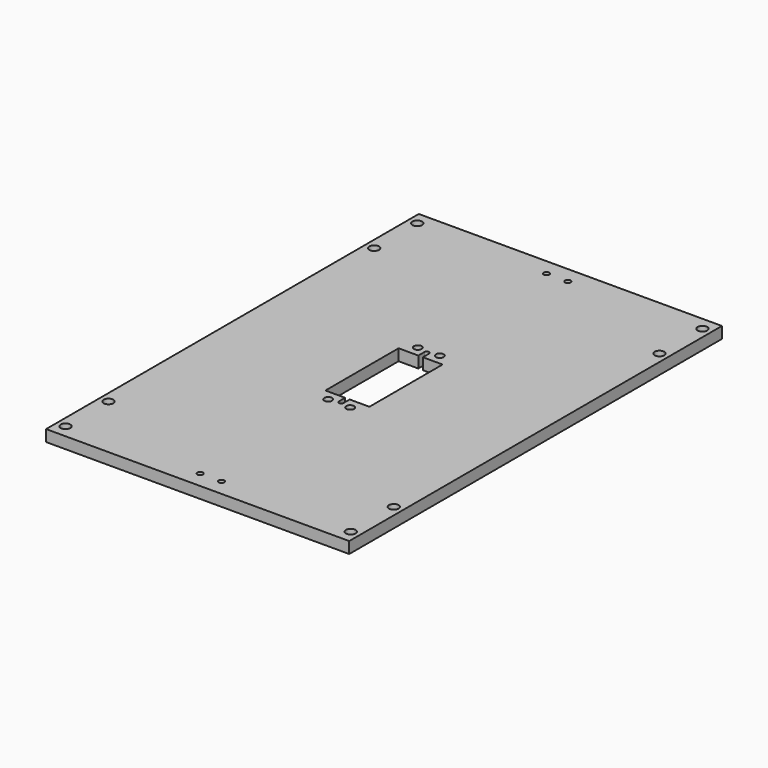
from build123d import *

# Parameters (mm, degrees)
F0_W     = 134.69465
F0_H     = 206.984854
F0_R     = 2.15265
F0_R_2   = 1.25
F0_R_3   = 1.7272
F1_DEPTH = 5.08


with BuildPart() as f1:
    # F0 (on Top) → F1 (new body)
    with BuildSketch(Plane.XY):
        Rectangle(F0_W, F0_H)
        with Locations((-63.378575, -97.650427)):
            Circle(F0_R, mode=Mode.SUBTRACT)
        with Locations((-63.378575, -73.774427)):
            Circle(F0_R, mode=Mode.SUBTRACT)
        with Locations((-4.750003, -96.192416)):
            Circle(F0_R_2, mode=Mode.SUBTRACT)
        with Locations((-4.8895, -24.892)):
            Circle(F0_R_3, mode=Mode.SUBTRACT)
        with Locations((4.750003, -96.192416)):
            Circle(F0_R_2, mode=Mode.SUBTRACT)
        with Locations((63.378575, -97.650427)):
            Circle(F0_R, mode=Mode.SUBTRACT)
        with Locations((63.378575, -73.774427)):
            Circle(F0_R, mode=Mode.SUBTRACT)
        with Locations((4.8895, -24.892)):
            Circle(F0_R_3, mode=Mode.SUBTRACT)
        with BuildLine():
            Line((-1.016, -20.32), (-9.779, -20.32))
            Line((-9.779, -20.32), (-9.779, 20.32))
            Line((-9.779, 20.32), (-1.016, 20.32))
            Line((-1.016, 20.32), (-1.016, 23.749))
            ThreePointArc((-1.016, 23.749), (0, 24.765), (1.016, 23.749))
            Line((1.016, 23.749), (1.016, 20.32))
            Line((1.016, 20.32), (9.779, 20.32))
            Line((9.779, 20.32), (9.779, -20.32))
            Line((9.779, -20.32), (1.016, -20.32))
            Line((1.016, -20.32), (1.016, -23.749))
            ThreePointArc((1.016, -23.749), (0, -24.765), (-1.016, -23.749))
            Line((-1.016, -23.749), (-1.016, -20.32))
        make_face(mode=Mode.SUBTRACT)
        with Locations((-4.8895, 24.892)):
            Circle(F0_R_3, mode=Mode.SUBTRACT)
        with Locations((-63.378575, 73.774427)):
            Circle(F0_R, mode=Mode.SUBTRACT)
        with Locations((-63.378575, 97.650427)):
            Circle(F0_R, mode=Mode.SUBTRACT)
        with Locations((-4.750003, 96.192416)):
            Circle(F0_R_2, mode=Mode.SUBTRACT)
        with Locations((4.8895, 24.892)):
            Circle(F0_R_3, mode=Mode.SUBTRACT)
        with Locations((4.750003, 96.192416)):
            Circle(F0_R_2, mode=Mode.SUBTRACT)
        with Locations((63.378575, 73.774427)):
            Circle(F0_R, mode=Mode.SUBTRACT)
        with Locations((63.378575, 97.650427)):
            Circle(F0_R, mode=Mode.SUBTRACT)
    extrude(amount=F1_DEPTH)


solid = f1.part
